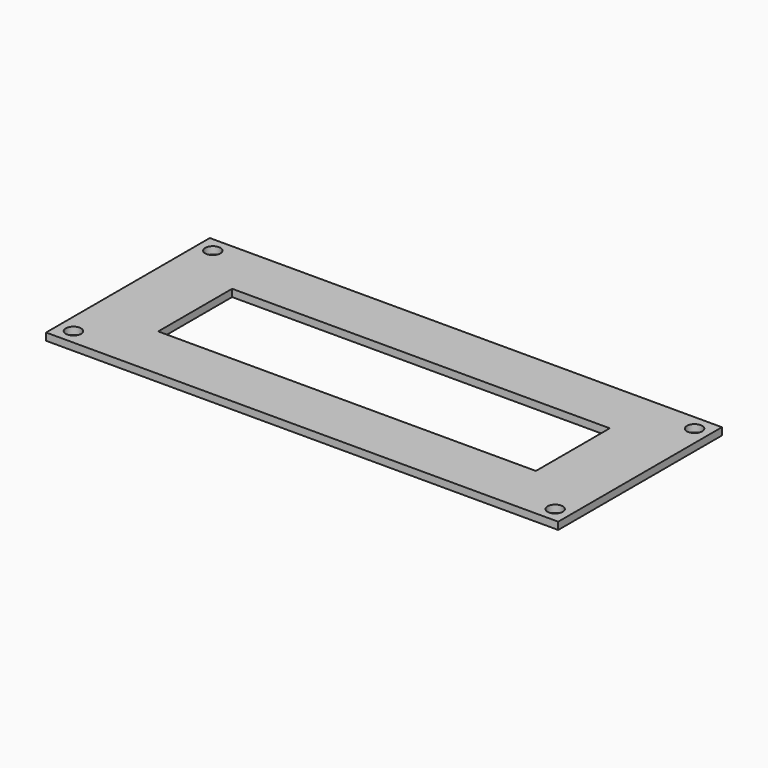
from build123d import *

# Parameters (mm, degrees)
SKETCH_W     = 111.252
SKETCH_H     = 44.45
SKETCH_R     = 1.65
PAD_DEPTH    = 1.5875
SKETCH001_R  = 1.65
SKETCH001_W  = 82.042
SKETCH001_H  = 20.066
POCKET_DEPTH = 1.5885


with BuildPart() as part:
    # Sketch → Pad (new body)
    with BuildSketch(Plane.XY):
        with Locations((1, 1)):
            Rectangle(SKETCH_W, SKETCH_H)
        with Locations((-51.326, 19.925)):
            Circle(SKETCH_R, mode=Mode.SUBTRACT)
        with Locations((53.326, -17.925)):
            Circle(SKETCH_R, mode=Mode.SUBTRACT)
        with Locations((53.326, 19.925)):
            Circle(SKETCH_R, mode=Mode.SUBTRACT)
        with Locations((-51.326, -17.925)):
            Circle(SKETCH_R, mode=Mode.SUBTRACT)
    extrude(amount=PAD_DEPTH)

    # Sketch001 → Pocket (cut, through all)
    with BuildSketch(Plane.XY):
        with Locations((-51.326, 19.925)):
            Circle(SKETCH001_R)
        with Locations((1, 1)):
            Rectangle(SKETCH001_W, SKETCH001_H)
    extrude(amount=POCKET_DEPTH, mode=Mode.SUBTRACT)


solid = part.part
